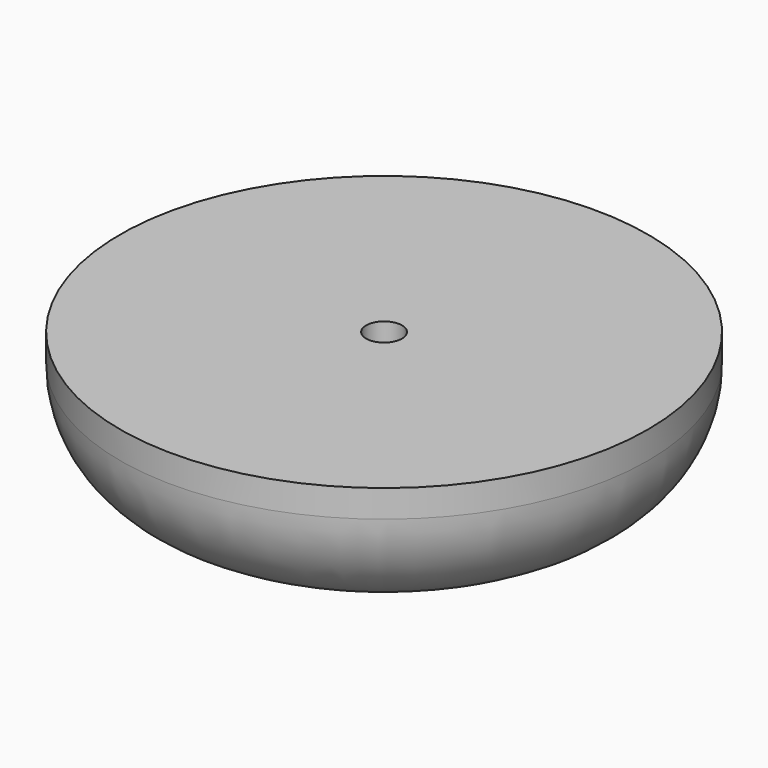
from build123d import *

# Parameters (mm, degrees)
F0_R     = 31.75
F1_DEPTH = 16.002
F2_R     = 12.7
F3_R     = 2.159
F4_DEPTH = 16.003
F5_SIZE  = 2.032


with BuildPart() as f1:
    # F0 (on Top) → F1 (new body)
    with BuildSketch(Plane.XY):
        Circle(F0_R)
    extrude(amount=F1_DEPTH)

    # F2
    f2_edges = [f1.edges().sort_by_distance(p)[0] for p in [
        (-31.75, 0, 0),
    ]]
    fillet(f2_edges, radius=F2_R)

    # F3 (on face) → F4 (cut, through all)
    with BuildSketch(Plane.XY.offset(16.002)):
        Circle(F3_R)
    extrude(amount=-F4_DEPTH, mode=Mode.SUBTRACT)

    # F5
    f5_edges = [f1.edges().sort_by_distance(p)[0] for p in [
        (-2.159, 0, 0),
    ]]
    chamfer(f5_edges, length=F5_SIZE)


solid = f1.part
